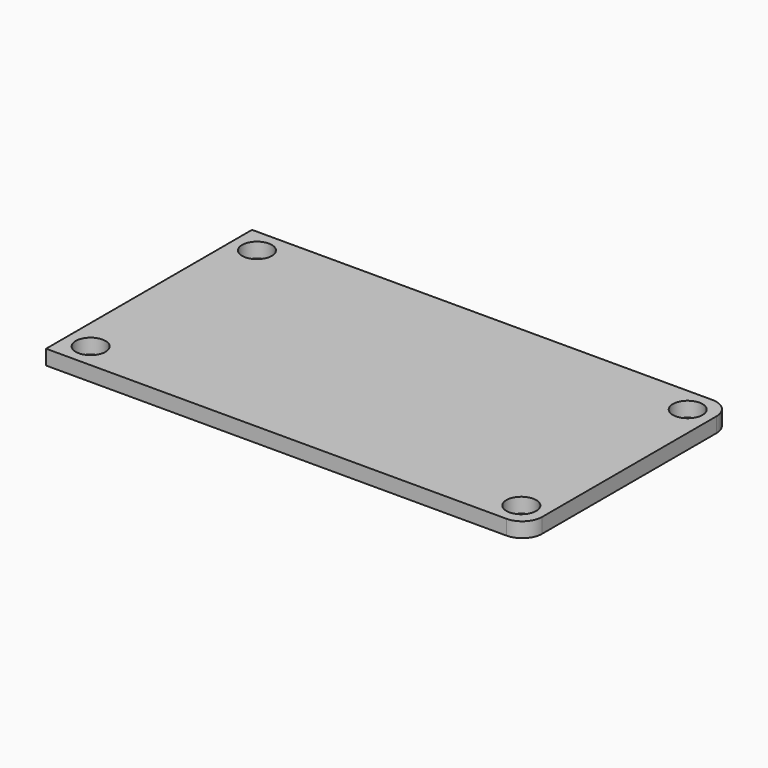
from build123d import *

# Parameters (mm, degrees)
BOX_W        = 48.5
BOX_H        = 26
BOX_DEPTH    = 1.5
FILLET_R     = 2
SKETCH_R     = 1.5
POCKET_DEPTH = 5


with BuildPart() as part:
    # Box → Box (new body)
    with BuildSketch(Plane.XY):
        with Locations((24.25, 13)):
            Rectangle(BOX_W, BOX_H)
    extrude(amount=BOX_DEPTH)

    # Fillet
    fillet_edges = [part.edges().sort_by_distance(p)[0] for p in [
        (48.5, 0, 0.75),
        (48.5, 26, 0.75),
    ]]
    fillet(fillet_edges, radius=FILLET_R)

    # Sketch → Pocket (cut)
    with BuildSketch(Plane.XY.offset(1.5)):
        with Locations((2.5, 23.5)):
            Circle(SKETCH_R)
        with Locations((46, 23.5)):
            Circle(SKETCH_R)
        with Locations((46, 2.5)):
            Circle(SKETCH_R)
        with Locations((2.5, 2.5)):
            Circle(SKETCH_R)
    extrude(amount=-POCKET_DEPTH, mode=Mode.SUBTRACT)


solid = part.part
